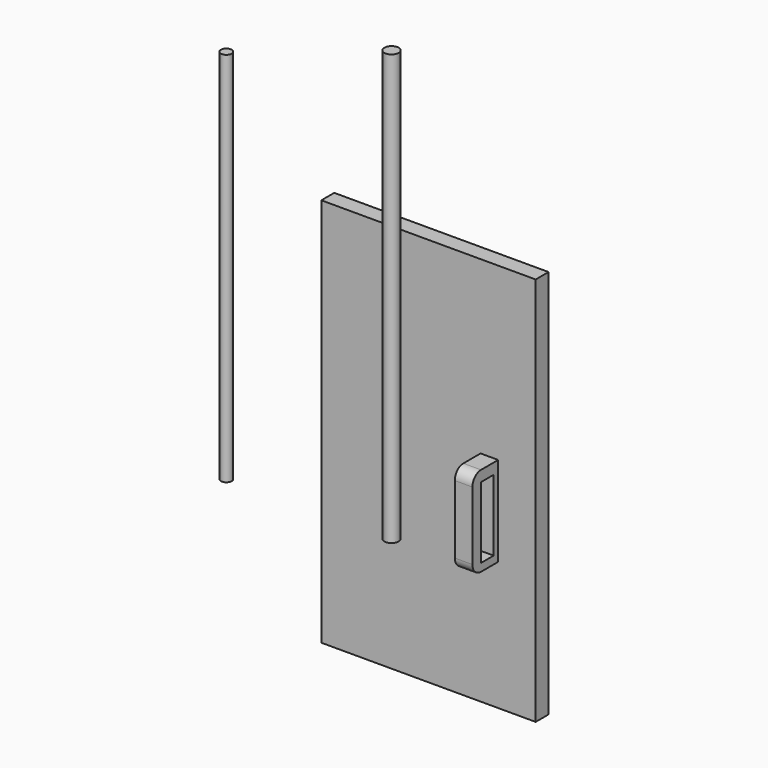
from build123d import *

# Parameters (mm, degrees)
F0_W      = 12.3879984021
F0_H      = 5.2089989185
F1_DEPTH  = 7.62
F2_DEPTH  = 5.08
F3_W      = 6.8076755852
F3_H      = 5.2791479975
F4_DEPTH  = 0.254
F5_R      = 2.54
F6_DEPTH  = 177.8
F7_R      = 3.3655
F8_DEPTH  = 203.2
F9_W      = 101.2698
F9_H      = 184.023
F10_DEPTH = 7.62
F11_W     = 8.3280205727
F11_H     = 42.3867786303
F12_DEPTH = 15.24
F13_R     = 5.08
F14_W     = 7.4755899894
F14_H     = 33.6194024739
F15_DEPTH = 10.16


with BuildPart() as f1:
    # F0 (on Top) → F1 (new body)
    with BuildSketch(Plane.XY):
        with Locations((-37.7440974116, 32.9208746552)):
            Rectangle(F0_W, F0_H)
    extrude(amount=F1_DEPTH)

    # F2 (add): a face of the model
    f2_faces = [f1.faces().sort_by_distance(p)[0] for p in [
        (-31.5500982106, 32.9208746552, 3.81),
    ]]
    extrude(f2_faces, amount=F2_DEPTH)

    # F3 (on face) → F4 (join)
    with BuildSketch(Plane(origin=(0, 35.5253741145, 0), x_dir=(-1, 0, 0), z_dir=(0, 1, 0))):
        with Locations((30.6641729549, 4.2410148308)):
            Rectangle(F3_W, F3_H)
    extrude(amount=F4_DEPTH)


with BuildPart() as f6:
    # F5 (on Top) → F6 (new body)
    with BuildSketch(Plane.XY):
        with Locations((-52.6742525399, -37.0907485485)):
            Circle(F5_R)
    extrude(amount=F6_DEPTH)


with BuildPart() as f8:
    # F7 (on Top) → F8 (new body)
    with BuildSketch(Plane.XY):
        with Locations((24.7108265758, -36.2383015454)):
            Circle(F7_R)
    extrude(amount=F8_DEPTH)


with BuildPart() as f10:
    # F9 (on Front) → F10 (new body)
    with BuildSketch(Plane.XZ):
        with Locations((19.2736731842, 18.9346689013)):
            Rectangle(F9_W, F9_H)
    extrude(amount=F10_DEPTH)

    # F11 (on face) → F12 (join)
    with BuildSketch(Plane.XZ.offset(7.62)):
        with Locations((48.0439439416, 8.9363283478)):
            Rectangle(F11_W, F11_H)
    extrude(amount=F12_DEPTH)

    # F13
    f13_edges = [f10.edges().sort_by_distance(p)[0] for p in [
        (48.043944, -22.86, 30.129718),
        (48.043944, -22.86, -12.257061),
    ]]
    fillet(f13_edges, radius=F13_R)

    # F14 (on face) → F15 (cut)
    with BuildSketch(Plane.YZ.offset(52.2079542279)):
        with Locations((-14.0422050053, 8.240016426)):
            Rectangle(F14_W, F14_H)
    extrude(amount=-F15_DEPTH, mode=Mode.SUBTRACT)


solid = Compound([f1.part, f6.part, f8.part, f10.part])
